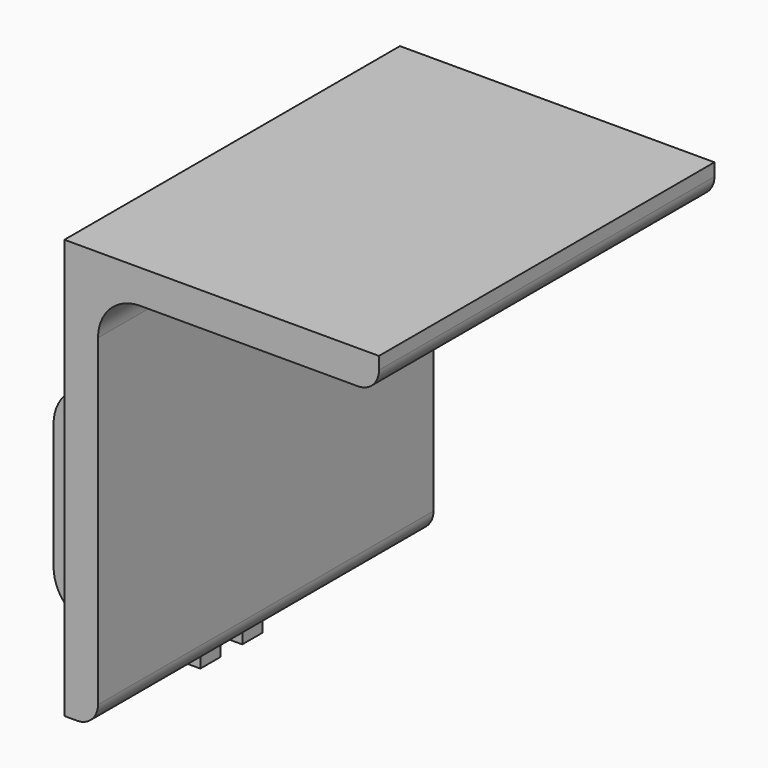
from build123d import *

# Parameters (mm, degrees)
F1_DEPTH = 100
F3_R     = 6
F4_DEPTH = 6
F6_R     = 6
F7_DEPTH = 6
F8_ANGLE = 180


with BuildPart() as f1:
    # F0 (on Front) → F1 (new body)
    with BuildSketch(Plane.XZ):
        with BuildLine():
            Line((0, 0), (-75, 0))
            Line((-75, 0), (-75, -3))
            ThreePointArc((-75, -3), (-73.535534, -6.535534), (-70, -8))
            Line((-70, -8), (-18, -8))
            ThreePointArc((-18, -8), (-10.928932, -10.928932), (-8, -18))
            Line((-8, -18), (-8, -95))
            ThreePointArc((-8, -95), (-6.535534, -98.535534), (-3, -100))
            Line((-3, -100), (0, -100))
            Line((0, -100), (0, 0))
        make_face()
    extrude(amount=-F1_DEPTH)

    # F3 (on offset) → F4 (join)
    with BuildSketch(Plane.XZ.offset(-41)):
        with BuildLine():
            Line((25, -56.5), (0, -56.5))
            Line((0, -56.5), (0, -106.5))
            Line((0, -106.5), (25, -106.5))
            ThreePointArc((25, -106.5), (32.071068, -103.571068), (35, -96.5))
            Line((35, -96.5), (35, -66.5))
            ThreePointArc((35, -66.5), (32.071068, -59.428932), (25, -56.5))
        make_face()
        with Locations((19.5, -81.5)):
            Circle(F3_R, mode=Mode.SUBTRACT)
    extrude(amount=-F4_DEPTH)

    # F6 (on offset) → F7 (join)
    with BuildSketch(Plane.XZ.offset(-53.5)):
        with BuildLine():
            Line((25, -56.5), (0, -56.5))
            Line((0, -56.5), (0, -106.5))
            Line((0, -106.5), (25, -106.5))
            ThreePointArc((25, -106.5), (32.071068, -103.571068), (35, -96.5))
            Line((35, -96.5), (35, -66.5))
            ThreePointArc((35, -66.5), (32.071068, -59.428932), (25, -56.5))
        make_face()
        with Locations((19.5, -81.5)):
            Circle(F6_R, mode=Mode.SUBTRACT)
    extrude(amount=-F7_DEPTH)


with BuildPart() as f1_1:
    # F8: moved
    add(f1.part.rotate(Axis((0, 0, -50), (0, 0, 1)), F8_ANGLE))


solid = f1_1.part
